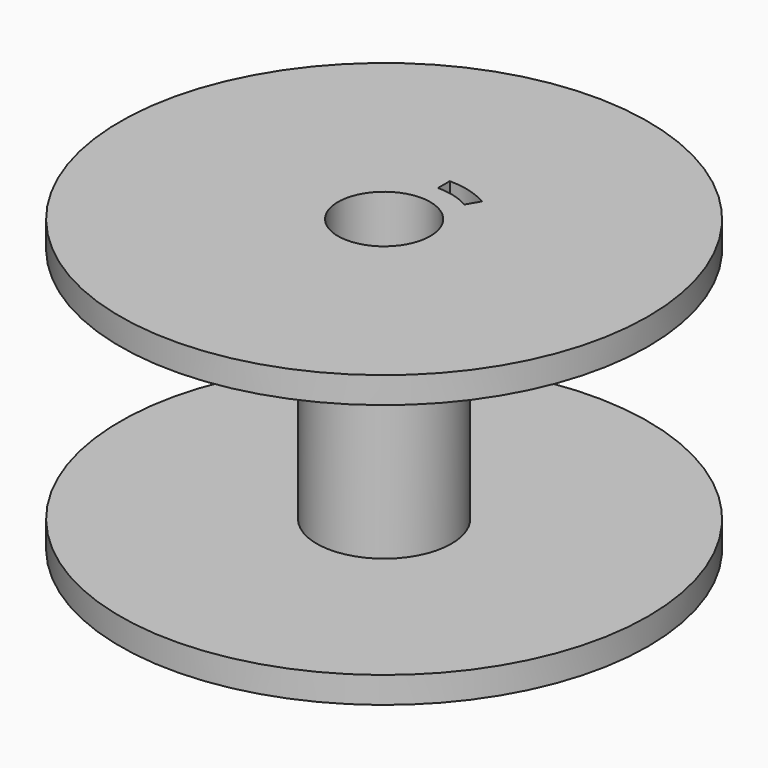
from build123d import *

# Parameters (mm, degrees)
F0_R     = 6.375
F0_R_2   = 4.375
F1_DEPTH = 11.25
F2_R     = 25
F2_R_2   = 6.375
F2_R_3   = 4.375
F3_DEPTH = 2.5
F6_DEPTH = 2.5
F8_DEPTH = 1
F4_R     = 25
F4_R_2   = 6.375
F9_DEPTH = 2.5


with BuildPart() as f1:
    # F0 (on Top) → F1 (new body, symmetric)
    with BuildSketch(Plane.XY):
        Circle(F0_R)
        Circle(F0_R_2, mode=Mode.SUBTRACT)
    extrude(amount=F1_DEPTH, both=True)

    # F2 (on face) → F3 (join)
    with BuildSketch(Plane.XY.offset(11.25)):
        Circle(F2_R)
        Circle(F2_R_2, mode=Mode.SUBTRACT)
        Circle(F2_R_2)
        Circle(F2_R_3, mode=Mode.SUBTRACT)
    extrude(amount=F3_DEPTH)

    # F5 (on face) → F6 (cut, through all)
    with BuildSketch(Plane.XY.offset(13.75)):
        with BuildLine():
            ThreePointArc((0, 6.375), (1.6499714125, 6.1577771426), (3.1875, 5.5209119491))
            Line((3.1875, 5.5209119491), (3.8875, 6.7333475144))
            ThreePointArc((3.8875, 6.7333475144), (2.0123180757, 7.5100732994), (0, 7.775))
            Line((0, 7.775), (0, 6.375))
        make_face()
    extrude(amount=-F6_DEPTH, mode=Mode.SUBTRACT)

    # F7 (on face) → F8 (join)
    with BuildSketch(Plane(origin=(0, 0, 11.25), x_dir=(1, 0, 0), z_dir=(0, 0, -1))):
        with BuildLine():
            Line((0.9911660777, -6.2974768603), (1.2088339223, -7.6804521708))
            ThreePointArc((1.2088339223, -7.6804521708), (2.0123180757, -7.5100732994), (2.7933451998, -7.2558836536))
            Line((2.7933451998, -7.2558836536), (2.2903634275, -5.9493579797))
            ThreePointArc((2.2903634275, -5.9493579797), (1.6499714125, -6.1577771426), (0.9911660777, -6.2974768603))
        make_face()
    extrude(amount=-F8_DEPTH)


with BuildPart() as f9:
    # F4 (on face) → F9 (new body)
    with BuildSketch(Plane(origin=(0, 0, -11.25), x_dir=(1, 0, 0), z_dir=(0, 0, -1))):
        Circle(F4_R)
        Circle(F4_R_2, mode=Mode.SUBTRACT)
    extrude(amount=F9_DEPTH)


solid = Compound([f1.part, f9.part])
